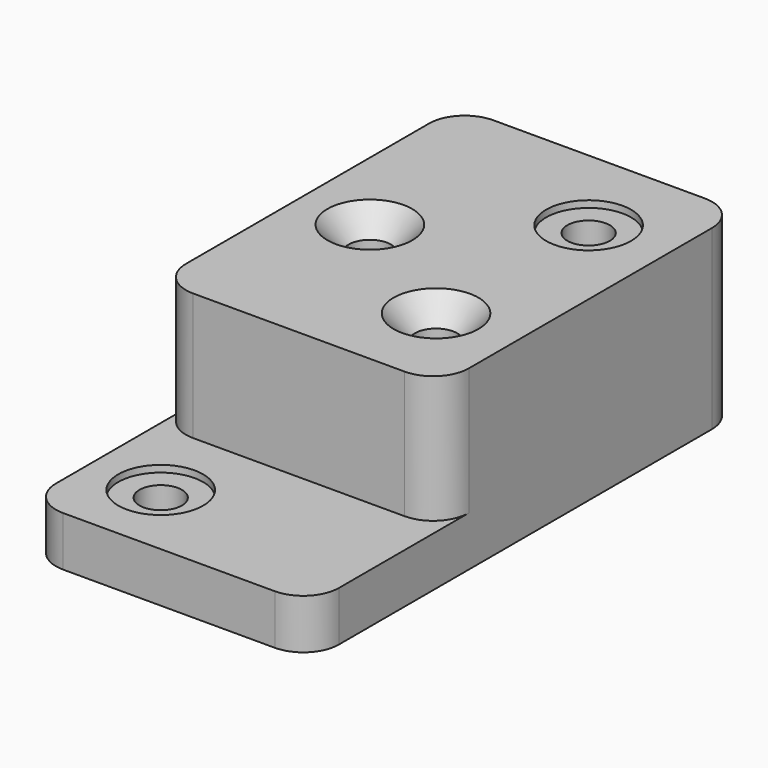
from build123d import *

# Parameters (mm, degrees)
F0_W                 = 127
F0_H                 = 241.3
F1_DEPTH             = 22.352
F2_W                 = 127
F2_H                 = 168.402
F3_DEPTH             = 57.15
F4_R                 = 16.002
F5_R                 = 16.002
F9_D                 = 19.05
F9_CBORE_D           = 38.1
F9_CBORE_DEPTH       = 3.048
F9_ON_F7_D           = 19.05
F9_ON_F7_CBORE_D     = 38.1
F9_ON_F7_CBORE_DEPTH = 3.048
F10_D                = 19.05
F10_CSINK_D          = 38.1
F10_CSINK_ANGLE      = 82


with BuildPart() as f1:
    # F0 (on Top) → F1 (new body)
    with BuildSketch(Plane.XY):
        with Locations((63.5, 120.65)):
            Rectangle(F0_W, F0_H)
    extrude(amount=F1_DEPTH)

    # F2 (on face) → F3 (join)
    with BuildSketch(Plane.XY.offset(22.352)):
        with Locations((63.5, 157.099)):
            Rectangle(F2_W, F2_H)
    extrude(amount=F3_DEPTH)

    # F4
    f4_edges = [f1.edges().sort_by_distance(p)[0] for p in [
        (127, 72.898, 50.927),
    ]]
    fillet(f4_edges, radius=F4_R)

    # F5
    f5_edges = [f1.edges().sort_by_distance(p)[0] for p in [
        (0, 72.898, 50.927),
        (0, 0, 11.176),
        (127, 0, 11.176),
        (127, 241.3, 39.751),
        (0, 241.3, 39.751),
    ]]
    fillet(f5_edges, radius=F5_R)

    # F9 (through all)
    with Locations(Plane.XY.offset(22.352)):
        with Locations((31.75, 35.052)):
            CounterBoreHole(F9_D / 2, F9_CBORE_D / 2, F9_CBORE_DEPTH)

    # F9 on F7 (through all)
    with Locations(Plane.XY.offset(79.502)):
        with Locations((91.948, 199.898)):
            CounterBoreHole(F9_ON_F7_D / 2, F9_ON_F7_CBORE_D / 2, F9_ON_F7_CBORE_DEPTH)

    # F10 (through all)
    with Locations(Plane.XY.offset(79.502)):
        with Locations((31.75, 152.4), (91.948, 114.3)):
            CounterSinkHole(F10_D / 2, F10_CSINK_D / 2, counter_sink_angle=F10_CSINK_ANGLE)


solid = f1.part
